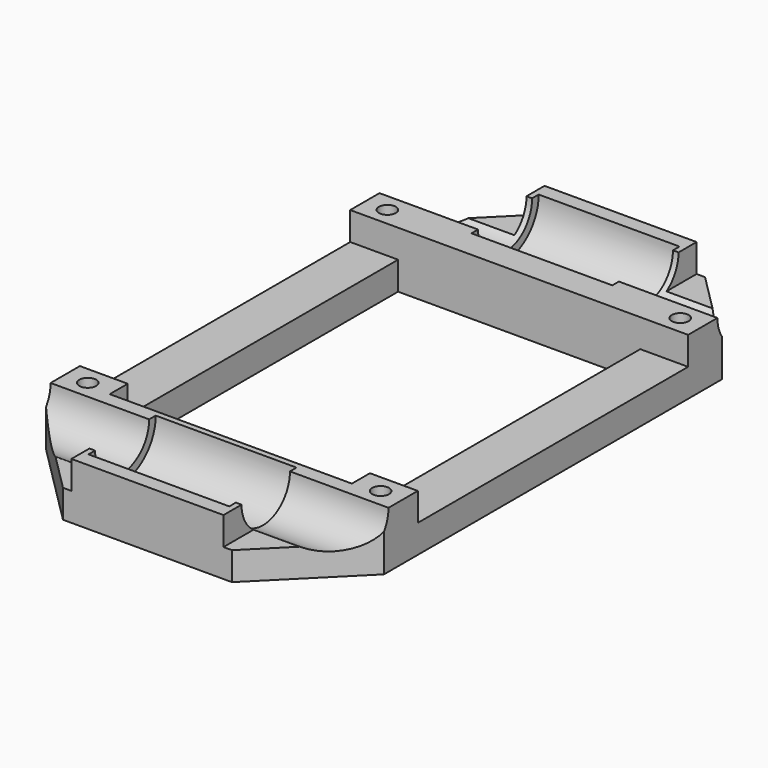
from build123d import *

# Parameters (mm, degrees)
SKETCH004_R  = 6
PAD003_DEPTH = 60
SKETCH005_R  = 1.5
PAD004_DEPTH = 10
SKETCH003_R  = 7.46
PAD002_DEPTH = 25
SKETCH_W     = 60
SKETCH_H     = 105
SKETCH_W_2   = 43
SKETCH_H_2   = 64
PAD_DEPTH    = 5
PAD001_DEPTH = 5
CHAMFER_SIZE = 15


with BuildPart() as rodmount:
    # Sketch004 → Pad003 (new body)
    with BuildSketch(Plane.YZ):
        with Locations((10, 10)):
            Circle(SKETCH004_R)
        with Locations((95, 10)):
            Circle(SKETCH004_R)
    extrude(amount=PAD003_DEPTH)


with BuildPart() as basemountpoints:
    # Sketch005 → Pad004 (new body)
    with BuildSketch(Plane.XY.offset(10)):
        with Locations((4, 19.25)):
            Circle(SKETCH005_R)
        with Locations((56, 19.25)):
            Circle(SKETCH005_R)
        with Locations((56, 85.75)):
            Circle(SKETCH005_R)
        with Locations((4, 85.75)):
            Circle(SKETCH005_R)
    extrude(amount=-PAD004_DEPTH)


with BuildPart() as cutblocks:
    # Sketch003 → Pad002 (new body)
    with BuildSketch(Plane.YZ.offset(17.5)):
        with Locations((10, 10)):
            Circle(SKETCH003_R)
        with Locations((95, 10)):
            Circle(SKETCH003_R)
    extrude(amount=PAD002_DEPTH)

    # Fusion: union RodMount, BaseMountPoints
    add(rodmount.part)
    add(basemountpoints.part)


with BuildPart() as base:
    # Sketch → Pad (new body)
    with BuildSketch(Plane.XY):
        with Locations((30, 52.5)):
            Rectangle(SKETCH_W, SKETCH_H)
        with Locations((30, 50.5)):
            Rectangle(SKETCH_W_2, SKETCH_H_2, mode=Mode.SUBTRACT)
    extrude(amount=PAD_DEPTH)


with BuildPart() as chamfer_body:
    # Pad001 base: copy of Base
    add(base.part)

    # Sketch001 → Pad001 (new body)
    with BuildSketch(Plane.XY.offset(5)):
        Polygon((16.5, 105), (43.5, 105), (43.5, 92.5), (60, 92.5), (60, 82.5), (0, 82.5), (0, 92.5), (16.5, 92.5), align=None)
        Polygon((43.5, 0), (16.5, 0), (16.5, 12.5), (0, 12.5), (0, 22.5), (8.5, 22.5), (8.5, 18.5), (51.5, 18.5), (51.5, 22.5), (60, 22.5), (60, 12.5), (43.5, 12.5), align=None)
    extrude(amount=PAD001_DEPTH)

    # Fusion001: union Base
    add(base.part)

    # Cut: cut CutBlocks
    add(cutblocks.part, mode=Mode.SUBTRACT)

    # Chamfer
    chamfer_edges = [chamfer_body.edges().sort_by_distance(p)[0] for p in [
        (60, 105, 2.5),
        (0, 105, 2.5),
        (60, 0, 2.5),
        (0, 0, 2.5),
    ]]
    chamfer(chamfer_edges, length=CHAMFER_SIZE)


solid = chamfer_body.part
